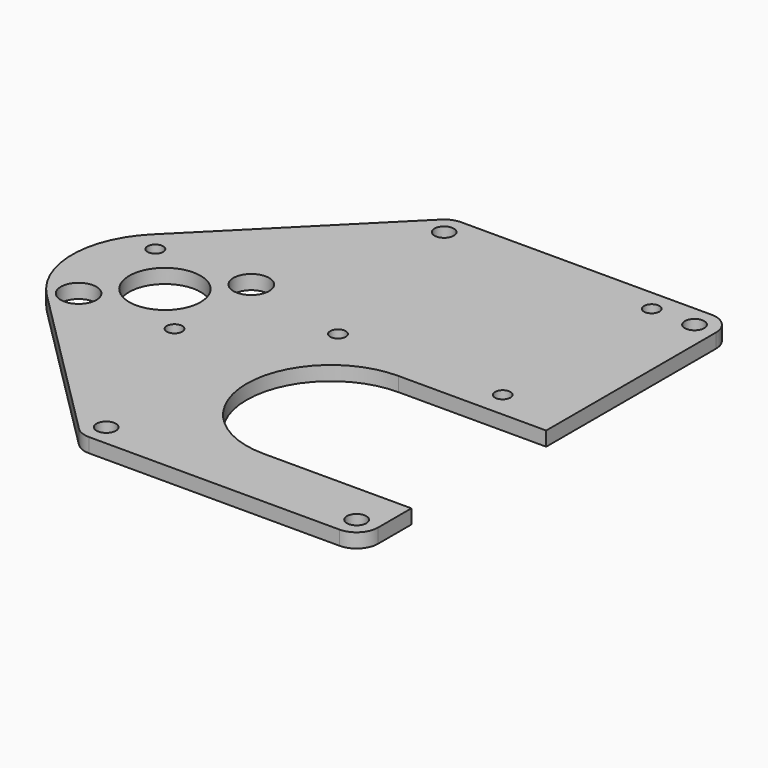
from build123d import *

# Parameters (mm, degrees)
F0_R     = 2.15265
F0_R_2   = 3.96875
F0_R_3   = 7.9375
F0_R_4   = 1.7272
F1_DEPTH = 3.175
F2_R     = 4.7625
F4_DEPTH = 3.175


with BuildPart() as f1:
    # F0 (on Top) → F1 (new body)
    with BuildSketch(Plane.XY):
        with BuildLine():
            Line((21.1458048519, 50.3316372454), (-14.5929161967, 14.5929161967))
            ThreePointArc((-14.5929161967, 14.5929161967), (-20.6375, 0), (-14.5929161967, -14.5929161967))
            Line((-14.5929161967, -14.5929161967), (21.1458048519, -50.3316372454))
            ThreePointArc((21.1458048519, -50.3316372454), (22.6908710507, -51.3640174736), (24.5134008973, -51.7265412))
            Line((24.5134008973, -51.7265412), (84.9529040973, -51.7265412))
            Line((84.9529040973, -51.7265412), (84.9529040973, 51.7265412))
            Line((84.9529040973, 51.7265412), (24.5134008973, 51.7265412))
            ThreePointArc((24.5134008973, 51.7265412), (22.6908710507, 51.3640174736), (21.1458048519, 50.3316372454))
        make_face()
        with Locations((24.5134008973, -46.9640412)):
            Circle(F0_R, mode=Mode.SUBTRACT)
        with Locations((-10.6640541438, -10.6640541438)):
            Circle(F0_R_2, mode=Mode.SUBTRACT)
        Circle(F0_R_3, mode=Mode.SUBTRACT)
        with Locations((10.6640541438, -10.6640541438)):
            Circle(F0_R_4, mode=Mode.SUBTRACT)
        with Locations((80.1904040973, -46.9640412)):
            Circle(F0_R, mode=Mode.SUBTRACT)
        with Locations((-10.6640541438, 10.6640541438)):
            Circle(F0_R_4, mode=Mode.SUBTRACT)
        with Locations((10.6640541438, 10.6640541438)):
            Circle(F0_R_2, mode=Mode.SUBTRACT)
        with Locations((24.5134008973, 46.9640412)):
            Circle(F0_R, mode=Mode.SUBTRACT)
        with Locations((34.0384008973, 5.55625)):
            Circle(F0_R_4, mode=Mode.SUBTRACT)
        with Locations((70.6654040973, 5.55625)):
            Circle(F0_R_4, mode=Mode.SUBTRACT)
        with Locations((70.6654040973, 46.9640412)):
            Circle(F0_R_4, mode=Mode.SUBTRACT)
        with Locations((80.1904040973, 46.9640412)):
            Circle(F0_R, mode=Mode.SUBTRACT)
    extrude(amount=F1_DEPTH)

    # F2
    f2_edges = [f1.edges().sort_by_distance(p)[0] for p in [
        (84.952904, 51.726541, 1.5875),
        (84.952904, -51.726541, 1.5875),
    ]]
    fillet(f2_edges, radius=F2_R)

    # F3 (on face) → F4 (cut, through all)
    with BuildSketch(Plane.XY.offset(3.175)):
        with BuildLine():
            Line((52.0652126973, -37.68725), (84.9529040973, -37.68725))
            Line((84.9529040973, -37.68725), (84.9529040973, -0.22225))
            Line((84.9529040973, -0.22225), (52.0652126973, -0.22225))
            ThreePointArc((52.0652126973, -0.22225), (33.3327126973, -18.95475), (52.0652126973, -37.68725))
        make_face()
    extrude(amount=-F4_DEPTH, mode=Mode.SUBTRACT)


solid = f1.part
